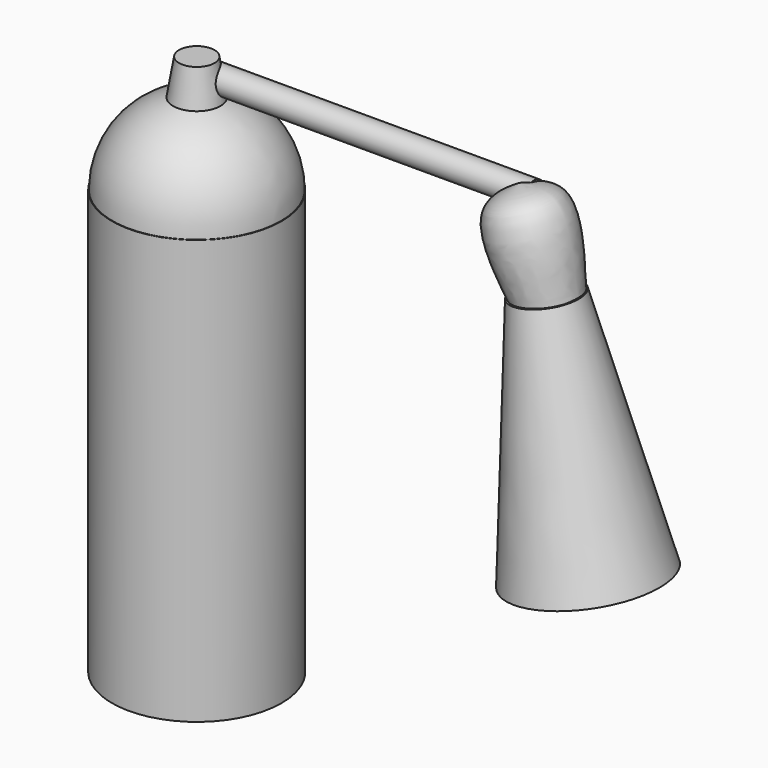
from build123d import *

# Parameters (mm, degrees)
F0_R     = 20.32
F1_DEPTH = 50.8
F7_R     = 3.0729490934
F8_DEPTH = 78.74


with BuildPart() as f1:
    # F0 (on Top) → F1 (new body, symmetric)
    with BuildSketch(Plane.XY):
        Circle(F0_R)
    extrude(amount=F1_DEPTH, both=True)

    # F2 (on Front) → F3 (revolve)
    with BuildSketch(Plane.XZ):
        with BuildLine():
            Line((0, 50.9317442775), (20.189454779, 50.5773611367))
            ThreePointArc((20.189454779, 50.5773611367), (14.4030478755, 65.0841957818), (0, 71.1243090399))
            Line((0, 71.1243090399), (0, 50.9317442775))
        make_face()
    revolve(axis=Axis((0, 0, 61.0280266587), (0, 0, -1)))

    # F5 (on Right) → F6 (revolve)
    with BuildSketch(Plane.YZ):
        Polygon((0, 62.3119361699), (1.6591945896, 62.3119361699), (7.0054852404, 62.3119361699), (4.2401598766, 78.903876245), (0, 78.903876245), align=None)
    revolve(axis=Axis((0, 0, 70.6079062074), (0, 0, -1)))

    # F7 (on Right) → F8 (join)
    with BuildSketch(Plane.YZ):
        with Locations((2.5758331176, 74.3131265044)):
            Circle(F7_R)
    extrude(amount=F8_DEPTH)

    # F9 (on Front) → F10 (revolve)
    with BuildSketch(Plane.XZ):
        with BuildLine():
            add(Edge.make_bspline(
                [(77.1916285157, 77.2717222571), (80.5414482084, 77.6263895759), (88.7637679854, 78.496940345), (90.2856769773, 65.3756755472), (91.1875516176, 57.6000884175)],
                knots=[0, 0, 0, 0, 0.4074056694, 1, 1, 1, 1], degree=3))
            Line((77.1916285157, 77.2717222571), (79.1982337832, 74.6180936694))
            add(Edge.make_bspline(
                [(79.1982337832, 74.6180936694), (80.9350673917, 74.6645930701), (85.9177561117, 74.7979921694), (84.5073837742, 64.3036691827), (83.588629961, 57.4673898518)],
                knots=[0, 0, 0, 0, 0.3485735726, 1, 1, 1, 1], degree=3))
            Line((83.588629961, 57.4673898518), (91.1875516176, 57.6000884175))
        make_face()
        with BuildLine():
            Line((79.1982337832, 74.6180936694), (77.1916285157, 77.2717222571))
            Line((77.1916285157, 77.2717222571), (83.588629961, 57.4673898518))
            add(Edge.make_bspline(
                [(79.1982337832, 74.6180936694), (80.9350673917, 74.6645930701), (85.9177561117, 74.7979921694), (84.5073837742, 64.3036691827), (83.588629961, 57.4673898518)],
                knots=[0, 0, 0, 0, 0.3485735726, 1, 1, 1, 1], degree=3))
        make_face()
    revolve(axis=Axis((80.3901292384, 0, 67.3695560545), (0.3073729937, 0, -0.9515891144)))

    # F11 (on Front) → F12 (revolve)
    with BuildSketch(Plane.XZ):
        Polygon((91.4701148868, 57.5232356787), (83.6011469364, 57.0121742785), (83.9662040441, 54.9480340358), (90.231738364, 56.0561359902), (109.0413108468, 2.9503183905), (110.7993200421, 2.9503183905), align=None)
    revolve(axis=Axis((88.3817486465, 0, 29.9812463345), (0.1741540854, 0, -0.9847184138)))


solid = f1.part
